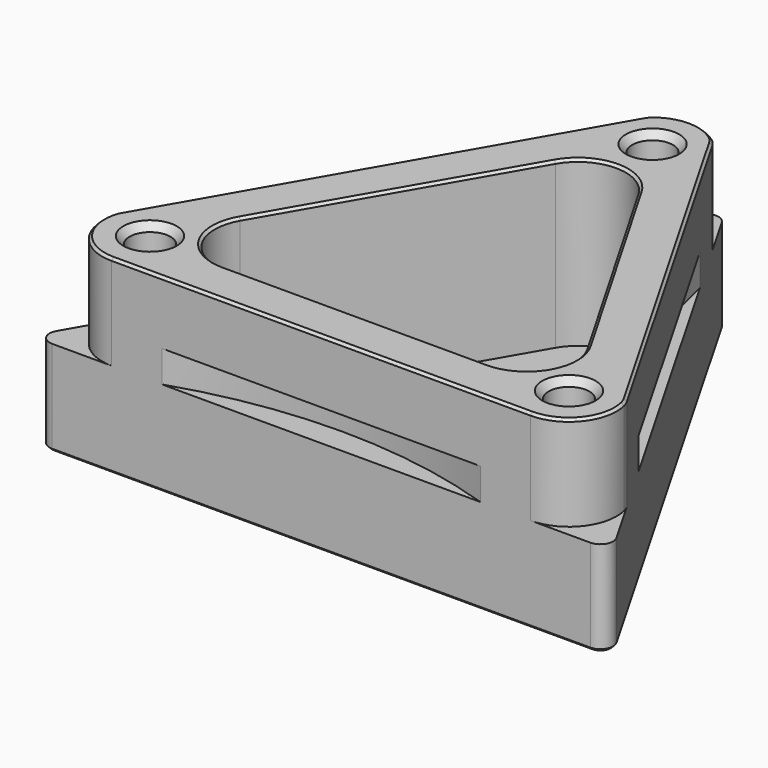
from build123d import *

# Parameters (mm, degrees)
PAD_DEPTH        = 19.05
FILLET_R         = 1.27
HOLE_D           = 4.1
HOLE_DEPTH       = 14.986
HOLE_CSINK_D     = 5.3594
HOLE_CSINK_ANGLE = 82
HOLE_TIPS_R      = 2.05
SKETCH002_R      = 63.5
POCKET_DEPTH     = 9.525
POCKET001_DEPTH  = 3.175
POCKET002_DEPTH  = 16.51
FILLET001_R      = 2.54
CHAMFER_SIZE     = 0.254


with BuildPart() as part:
    # Sketch → Pad (new body)
    with BuildSketch(Plane.XY):
        Polygon((-29.21, 0), (29.21, 0), (0, 50.8), align=None)
    extrude(amount=PAD_DEPTH)

    # Fillet
    fillet_edges = [part.edges().sort_by_distance(p)[0] for p in [
        (-29.21, 0, 9.525),
        (29.21, 0, 9.525),
        (0, 50.8, 9.525),
    ]]
    fillet(fillet_edges, radius=FILLET_R)

    # Hole
    with Locations(Plane.XY.offset(19.05)):
        with Locations((0, 41.5798), (21.0312, 4.8006), (-21.0312, 4.8006)):
            CounterSinkHole(HOLE_D / 2, HOLE_CSINK_D / 2, depth=HOLE_DEPTH, counter_sink_angle=HOLE_CSINK_ANGLE)

    # Hole tips → Hole tip 1 section 0
    with BuildSketch(Plane.XY.offset(4.064), mode=Mode.PRIVATE) as hole_tip_1_s0:
        with Locations((0, 41.5798)):
            Circle(HOLE_TIPS_R)
    loft([hole_tip_1_s0.sketch, Vertex(0, 41.5798, 2.832236)], mode=Mode.SUBTRACT)

    # Hole tips → Hole tip 2 section 0
    with BuildSketch(Plane.XY.offset(4.064), mode=Mode.PRIVATE) as hole_tip_2_s0:
        with Locations((21.0312, 4.8006)):
            Circle(HOLE_TIPS_R)
    loft([hole_tip_2_s0.sketch, Vertex(21.0312, 4.8006, 2.832236)], mode=Mode.SUBTRACT)

    # Hole tips → Hole tip 3 section 0
    with BuildSketch(Plane.XY.offset(4.064), mode=Mode.PRIVATE) as hole_tip_3_s0:
        with Locations((-21.0312, 4.8006)):
            Circle(HOLE_TIPS_R)
    loft([hole_tip_3_s0.sketch, Vertex(-21.0312, 4.8006, 2.832236)], mode=Mode.SUBTRACT)

    # Sketch002 (on Face5 of Hole) → Pocket (cut)
    with BuildSketch(Plane.XY.offset(19.05)):
        Circle(SKETCH002_R)
        with BuildLine():
            Line((-25.198579, 7.183604), (-4.167379, 43.962804))
            ThreePointArc((4.167379, 43.962804), (0, 46.3804), (-4.167379, 43.962804))
            Line((4.167379, 43.962804), (25.198579, 7.183604))
            ThreePointArc((21.0312, 0), (25.183646, 2.391668), (25.198579, 7.183604))
            Line((21.0312, 0), (-21.0312, 0))
            ThreePointArc((-25.198579, 7.183604), (-25.183646, 2.391668), (-21.0312, 0))
        make_face(mode=Mode.SUBTRACT)
    extrude(amount=-POCKET_DEPTH, mode=Mode.SUBTRACT)

    # Sketch003 (on Face13 of Pocket) → Pocket001 (cut)
    with BuildSketch(Plane.XY.offset(9.525)):
        with BuildLine():
            ThreePointArc((-62.664993, -0.912406), (-12.437232, 24.117556), (-15.907518, 80.129021))
            Line((-15.907518, 80.129021), (-62.664993, -0.912406))
        make_face()
        with BuildLine():
            ThreePointArc((15.907518, 80.129021), (12.437232, 24.117556), (62.664993, -0.912406))
            Line((15.907518, 80.129021), (62.664993, -0.912406))
        make_face()
        with BuildLine():
            ThreePointArc((46.781338, -28.414351), (0, 2.582963), (-46.781338, -28.414351))
            Line((46.781338, -28.414351), (-46.781338, -28.414351))
        make_face()
    extrude(amount=POCKET001_DEPTH, mode=Mode.SUBTRACT)

    # Sketch004 (on Face6 of Pocket001) → Pocket002 (cut)
    with BuildSketch(Plane.XY.offset(19.05)):
        with BuildLine():
            Line((-13.272642, 4.4196), (13.272642, 4.4196))
            ThreePointArc((13.272642, 4.4196), (17.430084, 6.8199), (17.430084, 11.6205))
            Line((17.430084, 11.6205), (4.157442, 34.609391))
            ThreePointArc((4.157442, 34.609391), (0, 37.009691), (-4.157442, 34.609391))
            Line((-4.157442, 34.609391), (-17.430084, 11.6205))
            ThreePointArc((-17.430084, 11.6205), (-17.430084, 6.8199), (-13.272642, 4.4196))
        make_face()
    extrude(amount=-POCKET002_DEPTH, mode=Mode.SUBTRACT)

    # Fillet001
    fillet001_edges = [part.edges().sort_by_distance(p)[0] for p in [
        (-3.293151, 45.072781, 14.2875),
        (3.293151, 45.072781, 14.2875),
        (25.597076, 6.283346, 14.2875),
        (-25.597076, 6.283346, 14.2875),
    ]]
    fillet(fillet001_edges, radius=FILLET001_R)

    # Chamfer
    chamfer_edges = [part.edges().sort_by_distance(p)[0] for p in [
        (-10.793763, 23.114945, 19.05),
        (-14.477962, 25.620935, 19.05),
        (0, 0, 0),
    ]]
    chamfer(chamfer_edges, length=CHAMFER_SIZE)


solid = part.part
